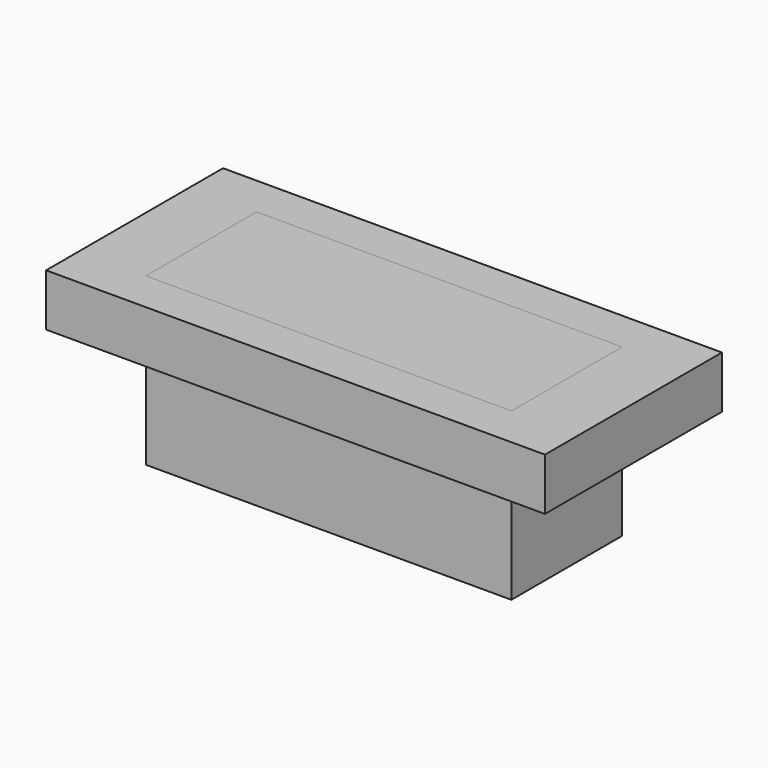
from build123d import *

# Parameters (mm, degrees)
F0_W     = 76.2
F0_H     = 33.782
F1_DEPTH = 7.9756
F2_W     = 55.838562
F2_H     = 21.1582
F3_DEPTH = 25.4


with BuildPart() as f1:
    # F0 (on Top) → F1 (new body)
    with BuildSketch(Plane.XY):
        Rectangle(F0_W, F0_H)
    extrude(amount=-F1_DEPTH)


with BuildPart() as f3:
    # F2 (on face) → F3 (new body)
    with BuildSketch(Plane.XY):
        Rectangle(F2_W, F2_H)
    extrude(amount=-F3_DEPTH)


solid = Compound([f1.part, f3.part])
